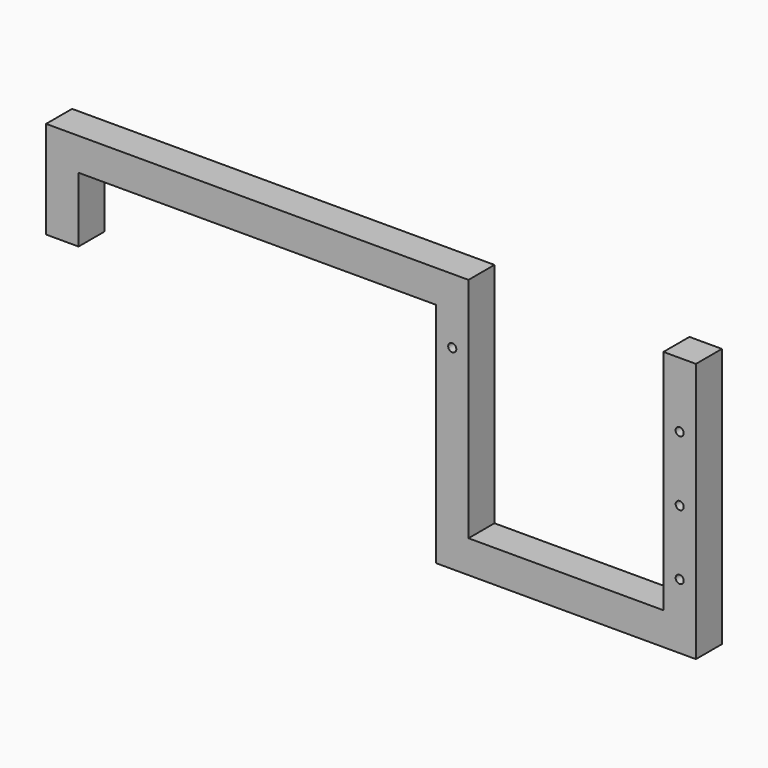
from build123d import *

# Parameters (mm, degrees)
F0_W     = 279.4
F0_H     = 25.4
F0_W_2   = 152.4
F1_DEPTH = 12.7
F2_R     = 3.175
F3_DEPTH = 12.7


with BuildPart() as f1:
    # F0 (on Front) → F1 (new body, symmetric)
    with BuildSketch(Plane.XZ):
        with Locations((139.7, -12.7)):
            Rectangle(F0_W, F0_H)
        Polygon((0, -25.4), (0, 0), (-25.4, 0), (-25.4, -76.2), (0, -76.2), align=None)
        Polygon((304.8, 0), (279.4, 0), (279.4, -25.4), (279.4, -203.2), (304.8, -203.2), (304.8, -177.8), align=None)
        with Locations((381, -190.5)):
            Rectangle(F0_W_2, F0_H)
        Polygon((457.2, 0), (457.2, -177.8), (457.2, -203.2), (482.6, -203.2), (482.6, 0), align=None)
    extrude(amount=F1_DEPTH, both=True)

    # F2 (on Front) → F3 (cut, symmetric)
    with BuildSketch(Plane.XZ):
        with Locations((469.9, -101.6)):
            Circle(F2_R)
        with Locations((469.9, -50.8)):
            Circle(F2_R)
        with Locations((469.9, -152.4)):
            Circle(F2_R)
        with Locations((292.1, -50.8)):
            Circle(F2_R)
    extrude(amount=F3_DEPTH, both=True, mode=Mode.SUBTRACT)


solid = f1.part
